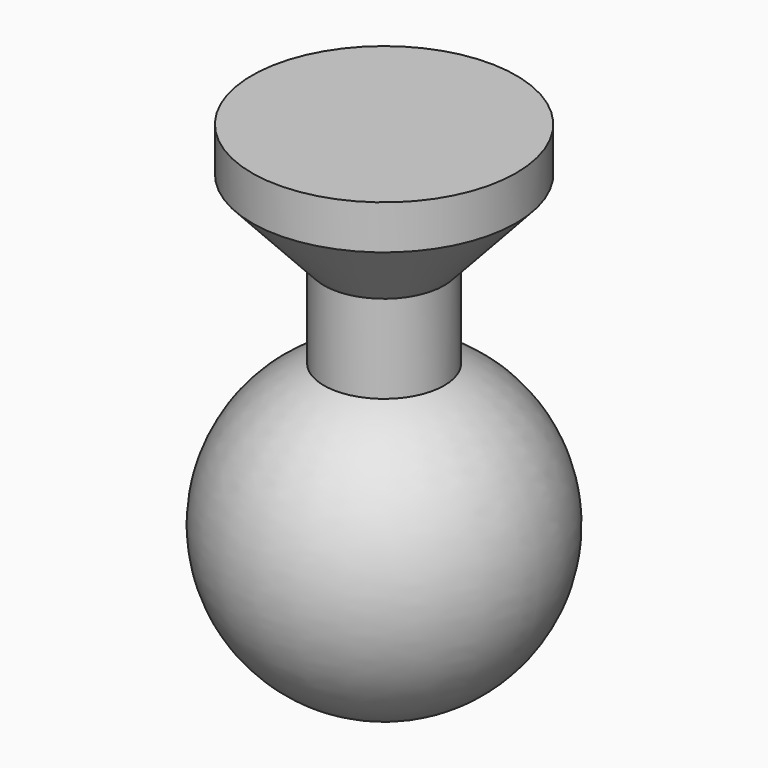
from build123d import *


with BuildPart() as f1:
    # F0 (on Front) → F1 (revolve)
    with BuildSketch(Plane.XZ):
        with BuildLine():
            Line((0, 35), (0, -35))
            ThreePointArc((0, -35), (34.298564, -6.971982), (13.664513, 32.222369))
            Line((13.664513, 32.222369), (13.664513, 52.222369))
            Line((13.664513, 52.222369), (30, 70))
            Line((30, 70), (30, 80))
            Line((30, 80), (0, 80))
            Line((0, 80), (0, 35))
        make_face()
    revolve(axis=Axis((0, 0, 0), (0, 0, -1)))


solid = f1.part
